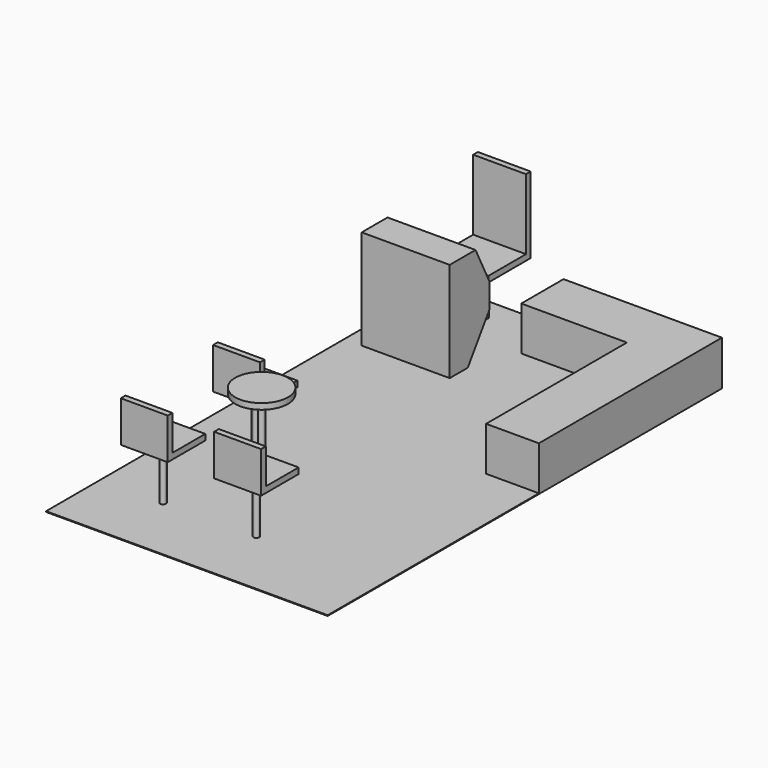
from build123d import *

# Parameters (mm, degrees)
F0_W      = 2438.4
F0_H      = 4267.2
F1_DEPTH  = 6.35
F2_W      = 914.4
F2_H      = 457.2
F3_DEPTH  = 381
F4_W      = 762
F4_H      = 431.8
F5_DEPTH  = 863.6
F6_SIZE2  = 152.4
F6_SIZE   = 304.8
F8_DEPTH  = 762
F10_DEPTH = 431.8
F11_W     = 457.2
F11_H     = 457.2
F12_DEPTH = 50.8
F13_W     = 457.2
F13_H     = 50.8
F14_DEPTH = 609.6
F15_R     = 25.4
F16_DEPTH = 457.2
F17_W     = 406.4
F17_H     = 406.4
F18_DEPTH = 50.8
F19_W     = 406.4
F19_H     = 50.8
F20_DEPTH = 304.8
F21_R     = 25.4
F22_DEPTH = 711.2
F23_R     = 228.6
F24_DEPTH = 50.8


with BuildPart() as f1:
    # F0 (on Top) → F1 (new body)
    with BuildSketch(Plane.XY):
        with Locations((-1219.2, 2133.6)):
            Rectangle(F0_W, F0_H)
        with Locations((-1219.2, 2133.6)):
            Rectangle(F0_W, F0_H)
    extrude(amount=F1_DEPTH)

    # F2 (on face) → F3 (join)
    with BuildSketch(Plane.XY.offset(6.35)):
        Polygon((0, 2286), (0, 4267.2), (-457.2, 4267.2), (-457.2, 3810), (-457.2, 2286), align=None)
        with Locations((-914.4, 4038.6)):
            Rectangle(F2_W, F2_H)
    extrude(amount=F3_DEPTH)

    # F4 (on face) → F5 (join)
    with BuildSketch(Plane.XY.offset(6.35)):
        with Locations((-1905, 3441.7)):
            Rectangle(F4_W, F4_H)
    extrude(amount=F5_DEPTH)

    # F6
    f6_edges = [f1.edges().sort_by_distance(p)[0] for p in [
        (-1905, 3657.6, 869.95),
    ]]
    chamfer(f6_edges, length=F6_SIZE, length2=F6_SIZE2)

    # F7 (on face) → F8 (cut)
    with BuildSketch(Plane(origin=(-2286, 0, 0), x_dir=(0, -1, 0), z_dir=(-1, 0, 0))):
        Polygon((-3421.291113, 6.35), (-3657.6, 356.84821), (-3657.6, 6.35), align=None)
    extrude(amount=-F8_DEPTH, mode=Mode.SUBTRACT)

    # F9 (on face) → F10 (join)
    with BuildSketch(Plane.XY.offset(6.35)):
        with BuildLine():
            ThreePointArc((-1905, 4025.9), (-1878.059232, 4037.059232), (-1866.9, 4064))
            ThreePointArc((-1866.9, 4064), (-1931.940768, 4090.940768), (-1905, 4025.9))
        make_face()
    extrude(amount=F10_DEPTH)

    # F11 (on face) → F12 (join)
    with BuildSketch(Plane.XY.offset(438.15)):
        with Locations((-1905, 4064)):
            Rectangle(F11_W, F11_H)
    extrude(amount=F12_DEPTH)

    # F13 (on face) → F14 (join)
    with BuildSketch(Plane.XY.offset(488.95)):
        with Locations((-1905, 4267.2)):
            Rectangle(F13_W, F13_H)
    extrude(amount=F14_DEPTH)

    # F15 (on face) → F16 (join)
    with BuildSketch(Plane.XY.offset(6.35)):
        with BuildLine():
            ThreePointArc((-1898.368258, 1564.11849), (-1880.407746, 1571.557977), (-1872.968258, 1589.51849))
            ThreePointArc((-1872.968258, 1589.51849), (-1916.32877, 1607.479002), (-1898.368258, 1564.11849))
        make_face()
        with BuildLine():
            ThreePointArc((-1872.968258, 590.788031), (-1880.407746, 608.748544), (-1898.368258, 616.188031))
            ThreePointArc((-1898.368258, 616.188031), (-1916.32877, 572.827519), (-1872.968258, 590.788031))
        make_face()
        with Locations((-1098.69957, 601.733327)):
            Circle(F15_R)
    extrude(amount=F16_DEPTH)

    # F17 (on face) → F18 (join)
    with BuildSketch(Plane.XY.offset(463.55)):
        with Locations((-1898.368258, 1589.51849)):
            Rectangle(F17_W, F17_H)
        with Locations((-1898.368258, 590.788031)):
            Rectangle(F17_W, F17_H)
        with Locations((-1098.69957, 601.733327)):
            Rectangle(F17_W, F17_H)
    extrude(amount=F18_DEPTH)

    # F19 (on face) → F20 (join)
    with BuildSketch(Plane.XY.offset(514.35)):
        with Locations((-1898.368258, 412.988031)):
            Rectangle(F19_W, F19_H)
        with Locations((-1098.69957, 423.933327)):
            Rectangle(F19_W, F19_H)
        with Locations((-1898.368258, 1411.71849)):
            Rectangle(F19_W, F19_H)
    extrude(amount=F20_DEPTH)

    # F21 (on face) → F22 (join)
    with BuildSketch(Plane.XY.offset(6.35)):
        with Locations((-1517.152071, 1181.139708)):
            Circle(F21_R)
    extrude(amount=F22_DEPTH)

    # F23 (on face) → F24 (join)
    with BuildSketch(Plane.XY.offset(717.55)):
        with Locations((-1517.152071, 1181.139708)):
            Circle(F23_R)
    extrude(amount=F24_DEPTH)


solid = f1.part
